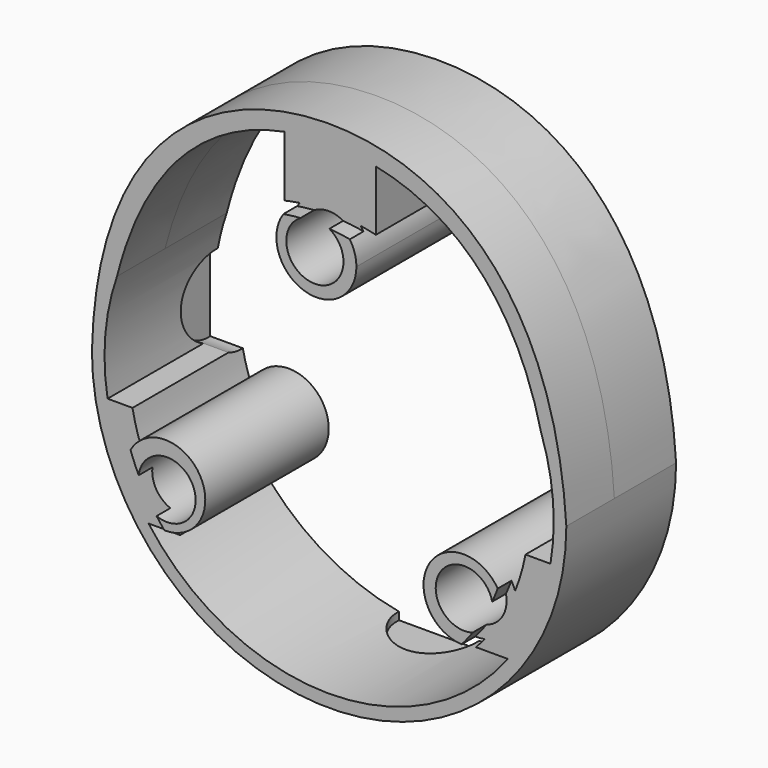
from build123d import *

# Parameters (mm, degrees)
F1_DEPTH  = 13.5
F3_DEPTH  = 30
F5_DEPTH  = 3
F7_D      = 10
F8_R      = 7
F9_DEPTH  = 40
F10_R     = 7
F11_DEPTH = 40
F13_DEPTH = 45


with BuildPart() as f1:
    # F0 (on Front) → F1 (new body, symmetric)
    with BuildSketch(Plane.XZ):
        with BuildLine():
            add(Edge.make_bspline(
                [(-41.5, 0), (-40.6509190798, 35.0818894804), (0.6570294499, 61.9181105196), (39.3368601799, 35.0818894804), (41.5, 0)],
                knots=[0, 0, 0, 0, 0.5, 1, 1, 1, 1], degree=3))
            ThreePointArc((-41.5, 0), (0, -41.5), (41.5, 0))
        make_face()
    extrude(amount=F1_DEPTH, both=True)

    # F2 (on face) → F3 (cut)
    with BuildSketch(Plane.XZ.offset(13.5)):
        with BuildLine():
            ThreePointArc((32.5374414571, -12.8963135596), (34.3788485191, -6.5646610347), (35, 0))
            ThreePointArc((35, 0), (26.6213074089, 22.7223676548), (5.4968004663, 34.5656648227))
            ThreePointArc((5.4968004663, 34.5656648227), (6.7399251447, 32.4431879402), (7.1720870792, 30.021720793))
            ThreePointArc((7.1720870792, 30.021720793), (-2.286987081, 23.4678704533), (-5.1001855708, 34.6264076558))
            ThreePointArc((-5.1001855708, 34.6264076558), (-30.0956422284, 17.8676332753), (-32.8417131072, -12.1004909067))
            ThreePointArc((-32.8417131072, -12.1004909067), (-25.0470149854, -7.6099732464), (-19.2668672949, -14.5028652623))
            ThreePointArc((-19.2668672949, -14.5028652623), (-21.8672756585, -19.947458308), (-27.7364654185, -21.3468612702))
            ThreePointArc((-27.7364654185, -21.3468612702), (-0.4437125722, -34.9971873035), (27.186343602, -22.0432012547))
            ThreePointArc((27.186343602, -22.0432012547), (19.8715130661, -11.6252013242), (32.5374414571, -12.8963135596))
        make_face()
    extrude(amount=-F3_DEPTH, mode=Mode.SUBTRACT)

    # F4 (on face) → F5 (cut)
    with BuildSketch(Plane.XZ.offset(13.5)):
        with BuildLine():
            add(Edge.make_bspline(
                [(-41.5, 0), (-40.6509190798, 35.0818894804), (0.6570294499, 61.9181105196), (39.3368601799, 35.0818894804), (41.5, 0)],
                knots=[0, 0, 0, 0, 0.5, 1, 1, 1, 1], degree=3))
            ThreePointArc((-41.5, 0), (0, -41.5), (41.5, 0))
        make_face()
        with BuildLine():
            ThreePointArc((-5.5944102498, 33.9900338545), (0.2188459884, 34.4261095338), (6.02153387, 33.8667139323))
            ThreePointArc((6.02153387, 33.8667139323), (5.7700864546, 34.2243869697), (5.4968004663, 34.5656648227))
            ThreePointArc((5.4968004663, 34.5656648227), (30.4107010386, 17.3259707474), (32.5374414571, -12.8963135596))
            ThreePointArc((32.5374414571, -12.8963135596), (32.2505420404, -12.1862967222), (31.8878008438, -11.5118680686))
            ThreePointArc((31.8878008438, -11.5118680686), (29.2191511765, -17.1200357859), (25.5785678665, -22.1518733584))
            ThreePointArc((25.5785678665, -22.1518733584), (26.3855932866, -22.1439565844), (27.186343602, -22.0432012547))
            ThreePointArc((27.186343602, -22.0432012547), (-0.4437125722, -34.9971873035), (-27.7364654185, -21.3468612702))
            ThreePointArc((-27.7364654185, -21.3468612702), (-27.0814923312, -21.4553026803), (-26.4191917867, -21.5012077267))
            ThreePointArc((-26.4191917867, -21.5012077267), (-29.8477517846, -16.5307845373), (-32.3469371921, -11.0340398062))
            ThreePointArc((-32.3469371921, -11.0340398062), (-32.6167533089, -11.5568598976), (-32.8417131072, -12.1004909067))
            ThreePointArc((-32.8417131072, -12.1004909067), (-30.0956422284, 17.8676332753), (-5.1001855708, 34.6264076558))
            ThreePointArc((-5.1001855708, 34.6264076558), (-5.3564618775, 34.3153377337), (-5.5944102498, 33.9900338545))
        make_face(mode=Mode.SUBTRACT)
    extrude(amount=-F5_DEPTH, mode=Mode.SUBTRACT)

    # F7 (through all)
    with Locations(Plane(origin=(0, 13.5, 0), x_dir=(-1, 0, 0), z_dir=(0, 1, 0))):
        with Locations((0.0923887911, 30.0220718413), (-26.0460712844, -14.9310248805), (25.9536824933, -15.0910469608)):
            Hole(F7_D / 2)

    # F8 (on Top) → F9 (cut)
    with BuildSketch(Plane.XY):
        with Locations((0, 13.2217486843)):
            Circle(F8_R)
    extrude(amount=-F9_DEPTH, mode=Mode.SUBTRACT)

    # F10 (on Right) → F11 (cut, symmetric)
    with BuildSketch(Plane.YZ):
        with Locations((13.1687597471, 0)):
            Circle(F10_R)
    extrude(amount=F11_DEPTH, both=True, mode=Mode.SUBTRACT)

    # F12 (on Front) → F13 (cut, symmetric)
    with BuildSketch(Plane.XZ):
        with BuildLine():
            add(Edge.make_bspline(
                [(-37.1117404138, 12.9166683182), (-31.8909446924, 33.2991668752), (-20.4388675878, 42.310272007), (-7.7872653969, 44.7230026175)],
                knots=[0, 0, 0, 0, 0.415839322, 0.415839322, 0.415839322, 0.415839322], degree=3))
            ThreePointArc((-37.1117404138, 12.9166683182), (-39.1537586618, 3.332383477), (-38.7608190529, -6.4591410676))
            Line((-38.7608190529, -6.4591410676), (-17.4803026021, -6.4591410676))
            Line((-17.4803026021, -6.4591410676), (-17.4803026021, -23.350475356))
            Line((-17.4803026021, -23.350475356), (-31.6050138053, -23.350475356))
            ThreePointArc((-31.6050138053, -23.350475356), (-0.2633451611, -39.2944302199), (31.2892064192, -23.77198264))
            Line((31.2892064192, -23.77198264), (17.6453739405, -23.77198264))
            Line((17.6453739405, -23.77198264), (17.6453739405, -6.6884830925))
            Line((17.6453739405, -6.6884830925), (38.7219032449, -6.6884830925))
            ThreePointArc((38.7219032449, -6.6884830925), (39.1634506664, 3.2164777144), (37.1117404138, 12.9166683182))
            add(Edge.make_bspline(
                [(8.172452372, 44.5784830349), (20.7986586816, 41.9557269194), (32.3701441874, 32.8654666183), (37.1117404138, 12.9166683182)],
                knots=[0.5879451924, 0.5879451924, 0.5879451924, 0.5879451924, 1, 1, 1, 1], degree=3))
            Line((8.172452372, 44.5784830349), (8.172452372, 21.7333426662))
            Line((8.172452372, 21.7333426662), (-7.7872653969, 21.7333426662))
            Line((-7.7872653969, 21.7333426662), (-7.7872653969, 44.7230026175))
        make_face()
    extrude(amount=F13_DEPTH, both=True, mode=Mode.SUBTRACT)


solid = f1.part
